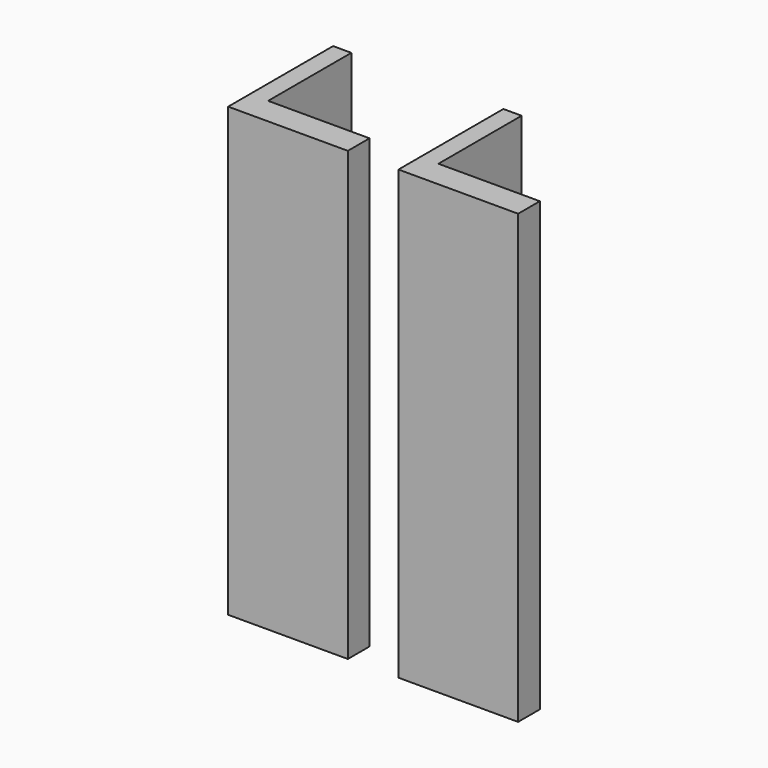
from build123d import *

# Parameters (mm, degrees)
F1_DEPTH = 50


with BuildPart() as f1:
    # F0 (on Top) → F1 (new body)
    with BuildSketch(Plane.XY):
        Polygon((2.039447, 0), (0, 0), (0, -14.655313), (13.373737, -14.655313), (13.373737, -11.623386), (2.039447, -11.623386), align=None)
    extrude(amount=F1_DEPTH)


with BuildPart() as f2_1:
    # F2: copy of F1
    add(f1.part.moved(Location((19.03044, 0, 0))))


solid = Compound([f1.part, f2_1.part])
